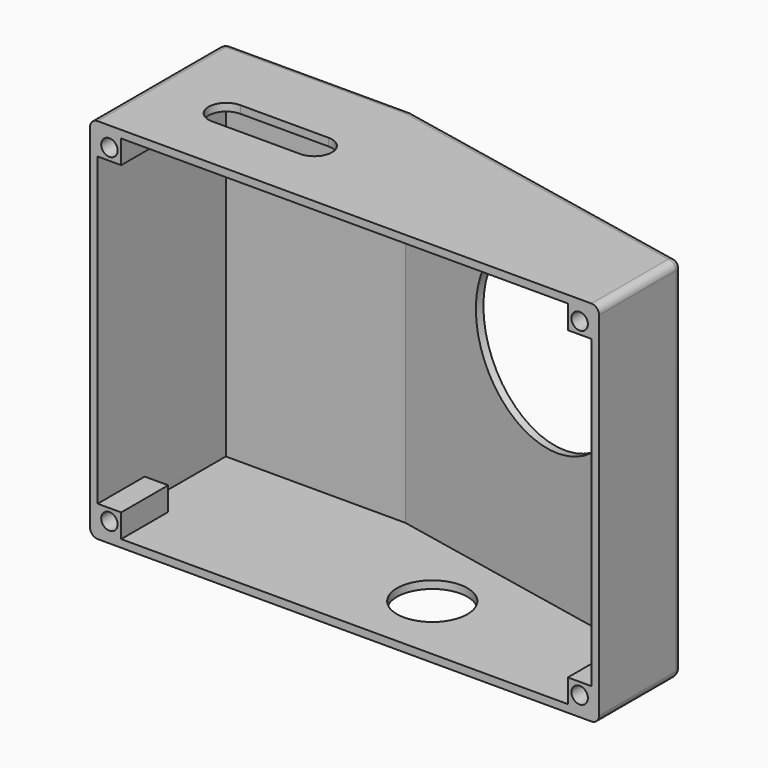
from build123d import *

# Parameters (mm, degrees)
PAD004_DEPTH    = 30
THICKNESS_T     = 1.3
SKETCH008_R     = 15
POCKET002_DEPTH = 5
SKETCH010_W     = 4
SKETCH010_H     = 4
SKETCH010_R     = 1.4
PAD006_DEPTH    = 10
POCKET003_DEPTH = 5
SKETCH013_R     = 6
POCKET004_DEPTH = 5


with BuildPart() as part:
    # CopySketch007 → Pad004 (new body, symmetric)
    with BuildSketch(Plane.XY):
        Polygon((5, 0), (5, 16.3299316186), (-48.4572350855, 27.2418440368), (-78.9897948557, 27.2418440368), (-78.9897948557, 0), align=None)
    extrude(amount=PAD004_DEPTH, both=True)

    # Thickness
    thickness_openings = [part.faces().sort_by_distance(p)[0] for p in [
        (-36.994897, 0, 0),
    ]]
    offset(amount=THICKNESS_T, openings=thickness_openings)

    # Sketch008 (on Face24 of Thickness) → Pocket002 (cut)
    with BuildSketch(Plane(origin=(3.66, 17.9302649172, 0), x_dir=(-0.9797958971, 0.2, 0), z_dir=(0.2, 0.9797958971, 0))):
        with Locations((23.2739585094, 7.9084926401)):
            Circle(SKETCH008_R)
    extrude(amount=-POCKET002_DEPTH, mode=Mode.SUBTRACT)

    # Sketch010 (on Face17 of Pocket002) → Pad006 (join)
    with BuildSketch(Plane.XZ):
        with Locations((-76.9897948557, 28)):
            Rectangle(SKETCH010_W, SKETCH010_H)
        with Locations((-76.9897948557, 28)):
            Circle(SKETCH010_R, mode=Mode.SUBTRACT)
        with Locations((-76.9897948557, -28)):
            Rectangle(SKETCH010_W, SKETCH010_H)
        with Locations((-76.9897948557, -28)):
            Circle(SKETCH010_R, mode=Mode.SUBTRACT)
        with Locations((3, -28)):
            Rectangle(SKETCH010_W, SKETCH010_H)
        with Locations((3, -28)):
            Circle(SKETCH010_R, mode=Mode.SUBTRACT)
        with Locations((3, 28)):
            Rectangle(SKETCH010_W, SKETCH010_H)
        with Locations((3, 28)):
            Circle(SKETCH010_R, mode=Mode.SUBTRACT)
    extrude(amount=-PAD006_DEPTH)

    # Sketch012 (on Face8 of Pad006) → Pocket003 (cut)
    with BuildSketch(Plane.XY.offset(31.3)):
        with BuildLine():
            ThreePointArc((-67.0672858986, 15.4269435951), (-70.0672858986, 12.4269435951), (-67.0672858986, 9.4269435951))
            Line((-67.0672858986, 9.4269435951), (-52.0672858986, 9.4269435951))
            ThreePointArc((-52.0672858986, 9.4269435951), (-49.0672858986, 12.4269435951), (-52.0672858986, 15.4269435951))
            Line((-67.0672858986, 15.4269435951), (-52.0672858986, 15.4269435951))
        make_face()
    extrude(amount=-POCKET003_DEPTH, mode=Mode.SUBTRACT)

    # Sketch013 (on Face25 of Pocket003) → Pocket004 (cut)
    with BuildSketch(Plane(origin=(0, 0, -31.3), x_dir=(1, 0, 0), z_dir=(0, 0, -1))):
        with Locations((-31.571347, -11.873986)):
            Circle(SKETCH013_R)
    extrude(amount=-POCKET004_DEPTH, mode=Mode.SUBTRACT)


solid = part.part
